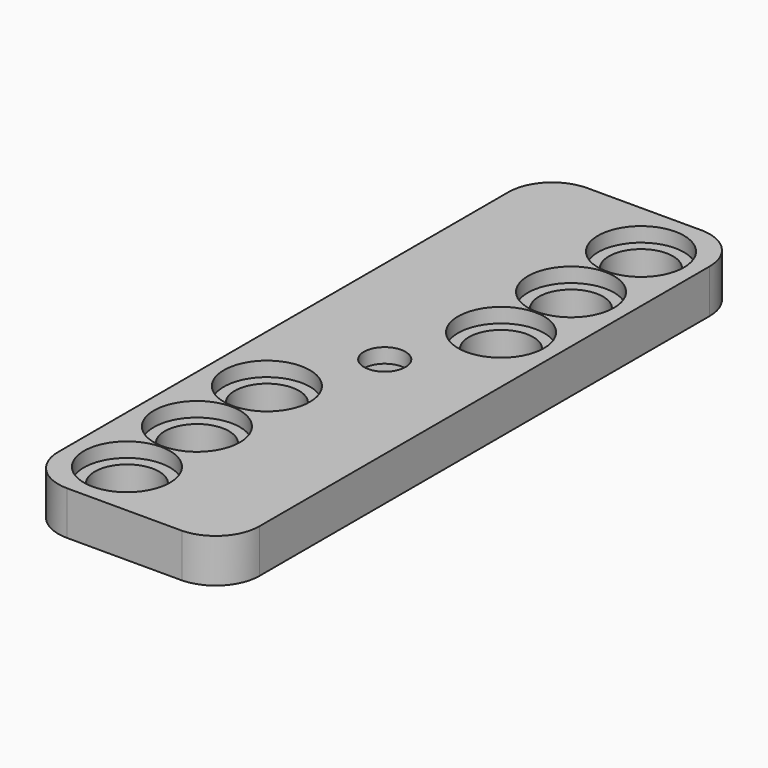
from build123d import *

# Parameters (mm, degrees)
F0_R     = 2.95
F0_R_2   = 2.2
F0_R_3   = 1.425
F1_DEPTH = 3
F2_DEPTH = 1
F3_R     = 1.425
F4_DEPTH = 2


with BuildPart() as f1:
    # F0 (on Top) → F1 (new body)
    with BuildSketch(Plane.XY):
        with BuildLine():
            Line((3.95, -19.301667), (3.95, 0))
            Line((3.95, 0), (3.95, 19.301667))
            ThreePointArc((3.95, 19.301667), (3.106386, 21.387332), (1.05, 22.3))
            Line((1.05, 22.3), (-6.85, 22.3))
            ThreePointArc((-6.85, 22.3), (-8.97132, 21.42132), (-9.85, 19.3))
            Line((-9.85, 19.3), (-9.85, 0))
            Line((-9.85, 0), (-9.85, -19.3))
            ThreePointArc((-9.85, -19.3), (-8.97132, -21.42132), (-6.85, -22.3))
            Line((-6.85, -22.3), (1.05, -22.3))
            ThreePointArc((1.05, -22.3), (3.106386, -21.387332), (3.95, -19.301667))
        make_face()
        with Locations((-5.9, -18.35)):
            Circle(F0_R, mode=Mode.SUBTRACT)
        with Locations((-5.9, -12.35)):
            Circle(F0_R, mode=Mode.SUBTRACT)
        with Locations((-5.9, -6.35)):
            Circle(F0_R, mode=Mode.SUBTRACT)
        Polygon((0.082537, 1.761952), (0.117164, -1.701977), (-2.865373, -3.463929), (-5.882537, -1.761952), (-5.917164, 1.701977), (-2.934627, 3.463929), align=None, mode=Mode.SUBTRACT)
        with Locations((0, 6.35)):
            Circle(F0_R, mode=Mode.SUBTRACT)
        with Locations((0, 12.35)):
            Circle(F0_R, mode=Mode.SUBTRACT)
        with Locations((0, 18.35)):
            Circle(F0_R, mode=Mode.SUBTRACT)
        with Locations((0, 18.35)):
            Circle(F0_R)
        with Locations((0, 18.35)):
            Circle(F0_R_2, mode=Mode.SUBTRACT)
        with Locations((0, 12.35)):
            Circle(F0_R)
        with Locations((0, 12.35)):
            Circle(F0_R_2, mode=Mode.SUBTRACT)
        Polygon((-2.865373, -3.463929), (0.117164, -1.701977), (0.082537, 1.761952), (-2.934627, 3.463929), (-5.917164, 1.701977), (-5.882537, -1.761952), align=None)
        with Locations((-2.9, 0)):
            Circle(F0_R_3, mode=Mode.SUBTRACT)
        with Locations((-5.9, -6.35)):
            Circle(F0_R)
        with Locations((-5.9, -6.35)):
            Circle(F0_R_2, mode=Mode.SUBTRACT)
        with Locations((-5.9, -12.35)):
            Circle(F0_R)
        with Locations((-5.9, -12.35)):
            Circle(F0_R_2, mode=Mode.SUBTRACT)
        with Locations((-5.9, -18.35)):
            Circle(F0_R)
        with Locations((-5.9, -18.35)):
            Circle(F0_R_2, mode=Mode.SUBTRACT)
        with Locations((0, 6.35)):
            Circle(F0_R)
        with Locations((0, 6.35)):
            Circle(F0_R_2, mode=Mode.SUBTRACT)
    extrude(amount=-F1_DEPTH)

    # F0 (on Top) → F2 (cut)
    with BuildSketch(Plane.XY):
        with Locations((-5.9, -6.35)):
            Circle(F0_R)
        with Locations((-5.9, -6.35)):
            Circle(F0_R_2, mode=Mode.SUBTRACT)
        with Locations((-5.9, -12.35)):
            Circle(F0_R)
        with Locations((-5.9, -12.35)):
            Circle(F0_R_2, mode=Mode.SUBTRACT)
        with Locations((-5.9, -18.35)):
            Circle(F0_R)
        with Locations((-5.9, -18.35)):
            Circle(F0_R_2, mode=Mode.SUBTRACT)
        with Locations((0, 18.35)):
            Circle(F0_R)
        with Locations((0, 18.35)):
            Circle(F0_R_2, mode=Mode.SUBTRACT)
        with Locations((0, 12.35)):
            Circle(F0_R)
        with Locations((0, 12.35)):
            Circle(F0_R_2, mode=Mode.SUBTRACT)
        with Locations((0, 6.35)):
            Circle(F0_R)
        with Locations((0, 6.35)):
            Circle(F0_R_2, mode=Mode.SUBTRACT)
    extrude(amount=-F2_DEPTH, mode=Mode.SUBTRACT)

    # F3 (on face) → F4 (cut)
    with BuildSketch(Plane(origin=(0, 0, -3), x_dir=(1, 0, 0), z_dir=(0, 0, -1))):
        Polygon((-2.890558, -3.464089), (0.10471, -1.723868), (0.095268, 1.740221), (-2.909442, 3.464089), (-5.90471, 1.723868), (-5.895268, -1.740221), align=None)
        with Locations((-2.9, 0)):
            Circle(F3_R, mode=Mode.SUBTRACT)
    extrude(amount=-F4_DEPTH, mode=Mode.SUBTRACT)


solid = f1.part
